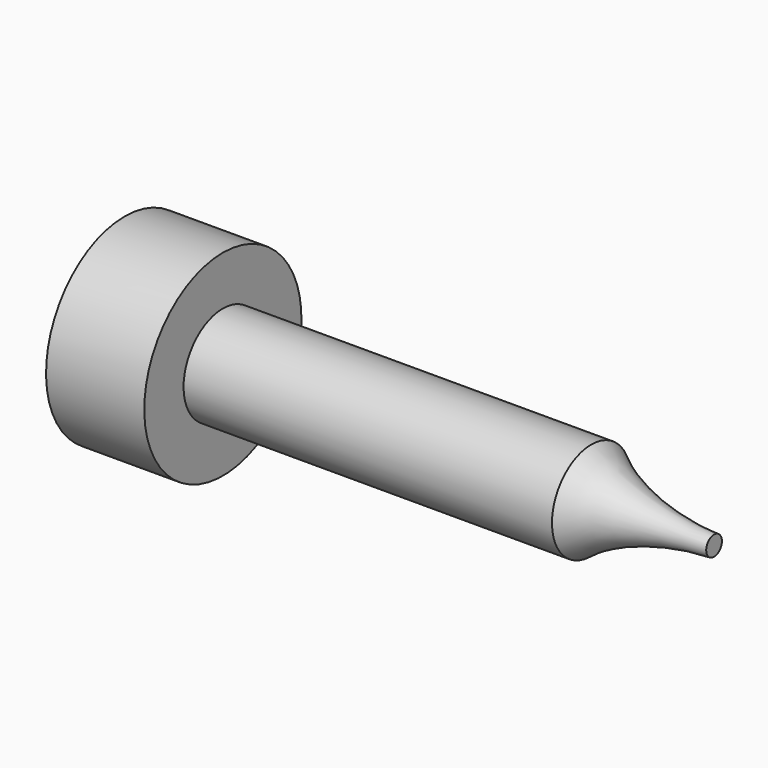
from build123d import *


with BuildPart() as f1:
    # F0 (on Front) → F1 (revolve)
    with BuildSketch(Plane.XZ):
        with BuildLine():
            Line((0, 2), (-15, 2))
            Line((-15, 2), (-15, 4))
            Line((-15, 4), (-19, 4))
            Line((-19, 4), (-19, 0))
            Line((-19, 0), (5, 0))
            Line((5, 0), (5, 0.4))
            add(Edge.make_bspline(
                [(0, 2), (1.598493, 0.736796), (3.845656, 0.422554), (5, 0.4)],
                knots=[0, 0, 0, 0, 5.249762, 5.249762, 5.249762, 5.249762], degree=3))
        make_face()
    revolve(axis=Axis((-7, 0, 0), (1, 0, 0)))


solid = f1.part
